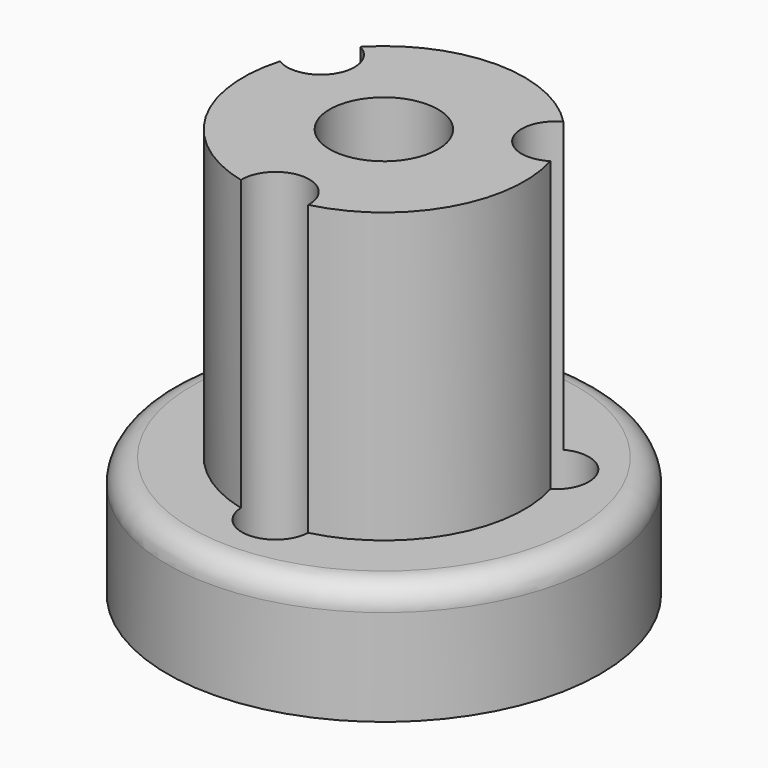
from build123d import *

# Parameters (mm, degrees)
F0_R      = 9
F1_DEPTH  = 5
F2_R      = 5.85
F2_R_2    = 2.25
F3_DEPTH  = 12
F4_R      = 1.375
F5_DEPTH  = 25
F3_FACE_R = 2.25
F6_DEPTH  = 5
F7_R      = 1.4
F8_DEPTH  = 25
F9_R      = 1


with BuildPart() as f1:
    # F0 (on Top) → F1 (new body)
    with BuildSketch(Plane.XY):
        Circle(F0_R)
    extrude(amount=F1_DEPTH)

    # F2 (on face) → F3 (join)
    with BuildSketch(Plane.XY.offset(5)):
        Circle(F2_R)
        Circle(F2_R_2, mode=Mode.SUBTRACT)
    extrude(amount=F3_DEPTH)

    # F4 (on Front) → F5 (cut)
    with BuildSketch(Plane.XZ):
        with Locations((0, 11)):
            Circle(F4_R)
    extrude(amount=-F5_DEPTH, mode=Mode.SUBTRACT)

    # F3_face (on face) → F6 (cut, through all)
    with BuildSketch(Plane.XY.offset(5)):
        Circle(F3_FACE_R)
    extrude(amount=-F6_DEPTH, mode=Mode.SUBTRACT)

    # F7 (on face) → F8 (cut)
    with BuildSketch(Plane(origin=(0, 0, 0), x_dir=(1, 0, 0), z_dir=(0, 0, -1))):
        with Locations((-4.871393, -2.8125)):
            Circle(F7_R)
        with Locations((0, 5.625)):
            Circle(F7_R)
        with Locations((4.871393, -2.8125)):
            Circle(F7_R)
    extrude(amount=-F8_DEPTH, mode=Mode.SUBTRACT)

    # F9
    f9_edges = [f1.edges().sort_by_distance(p)[0] for p in [
        (-9, 0, 5),
    ]]
    fillet(f9_edges, radius=F9_R)


solid = f1.part
